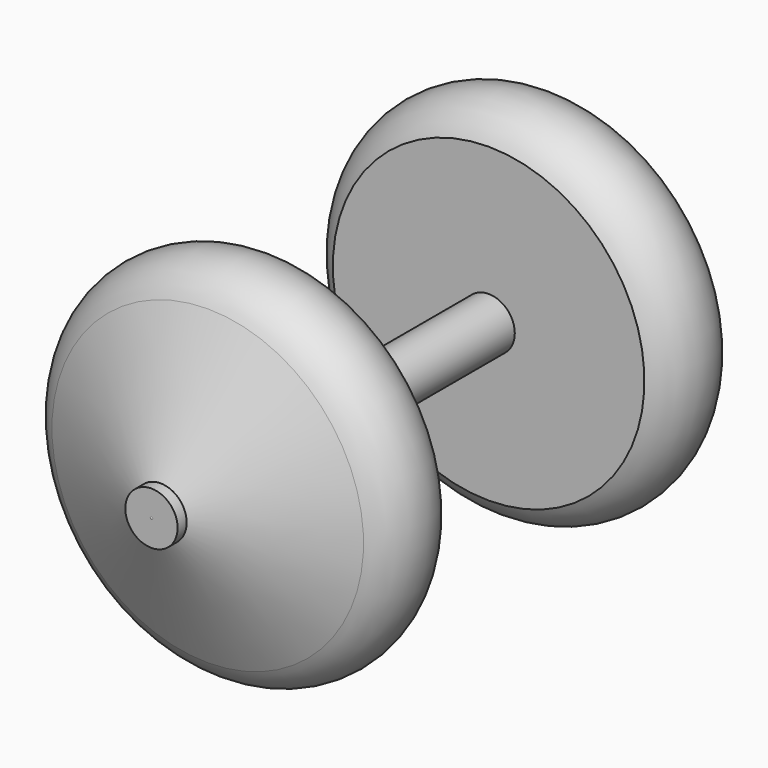
from build123d import *

# Parameters (mm, degrees)
F0_R          = 6.858
F1_DEPTH      = 76.2
F1_DEPTH_BACK = 76.2


with BuildPart() as f1:
    # F0 (on Front) → F1 (new body, two sides)
    with BuildSketch(Plane.XZ) as f1_sk:
        Circle(F0_R)
    extrude(amount=F1_DEPTH)
    extrude(f1_sk.sketch, amount=-F1_DEPTH_BACK)

    # F2 (on Right) → F3 (revolve)
    with BuildSketch(Plane.YZ):
        with BuildLine():
            Line((-57.759602, 0), (-34.290001, 0))
            Line((-34.290001, 0), (-34.290001, 40.8432))
            ThreePointArc((-34.290001, 40.8432), (-46.024801, 48.215831), (-57.759602, 40.8432))
            Line((-57.759602, 40.8432), (-57.759602, 0))
        make_face()
    revolve(axis=Axis((0, -46.024801, 0), (0, 1, 0)))

    # F2 (on Right) → F4 (revolve)
    with BuildSketch(Plane.YZ):
        with BuildLine():
            Line((57.759602, 0), (34.290001, 0))
            Line((34.290001, 0), (34.290001, -40.8432))
            ThreePointArc((34.290001, -40.8432), (46.024801, -48.215831), (57.759602, -40.8432))
            Line((57.759602, -40.8432), (57.759602, 0))
        make_face()
    revolve(axis=Axis((0, 46.024801, 0), (0, -1, 0)))

    # F2 (on Right) → F5 (revolve)
    with BuildSketch(Plane.YZ):
        Polygon((76.352403, 0), (57.759602, 0), (57.759602, -40.8432), align=None)
    revolve(axis=Axis((0, 67.056002, 0), (0, -1, 0)))

    # F2 (on Right) → F6 (revolve)
    with BuildSketch(Plane.YZ):
        Polygon((-76.352403, 0), (-57.759602, 0), (-57.759602, 40.8432), align=None)
    revolve(axis=Axis((0, -67.056002, 0), (0, -1, 0)))


solid = f1.part
